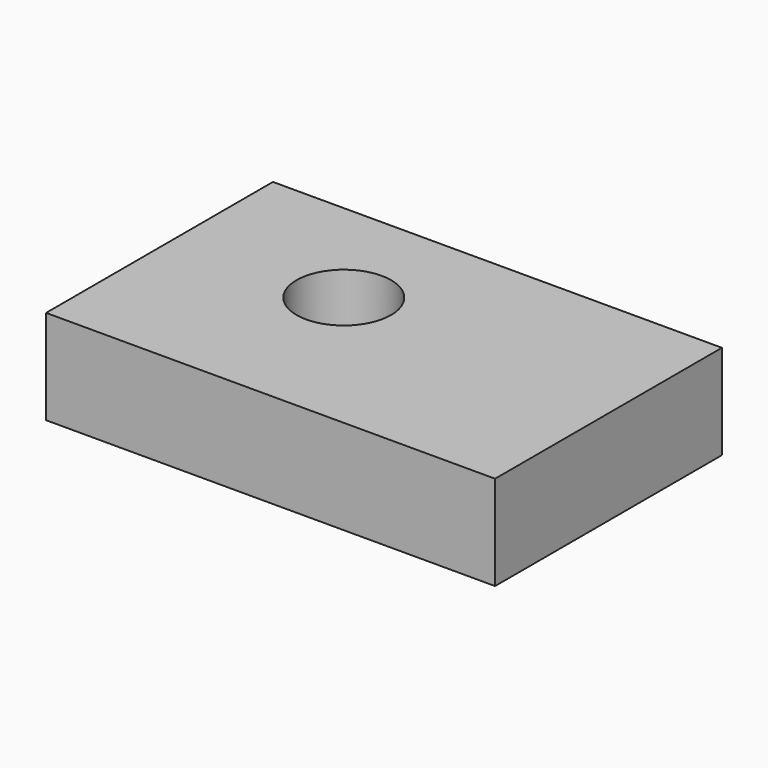
from build123d import *

# Parameters (mm, degrees)
SKETCH_W  = 9.5
SKETCH_H  = 6
SKETCH_R  = 1
PAD_DEPTH = 2


with BuildPart() as part:
    # Sketch → Pad (new body)
    with BuildSketch(Plane.XY):
        with Locations((4.75, 3)):
            Rectangle(SKETCH_W, SKETCH_H)
        with Locations((3.499939, 3.499861)):
            Circle(SKETCH_R, mode=Mode.SUBTRACT)
    extrude(amount=PAD_DEPTH)


solid = part.part
